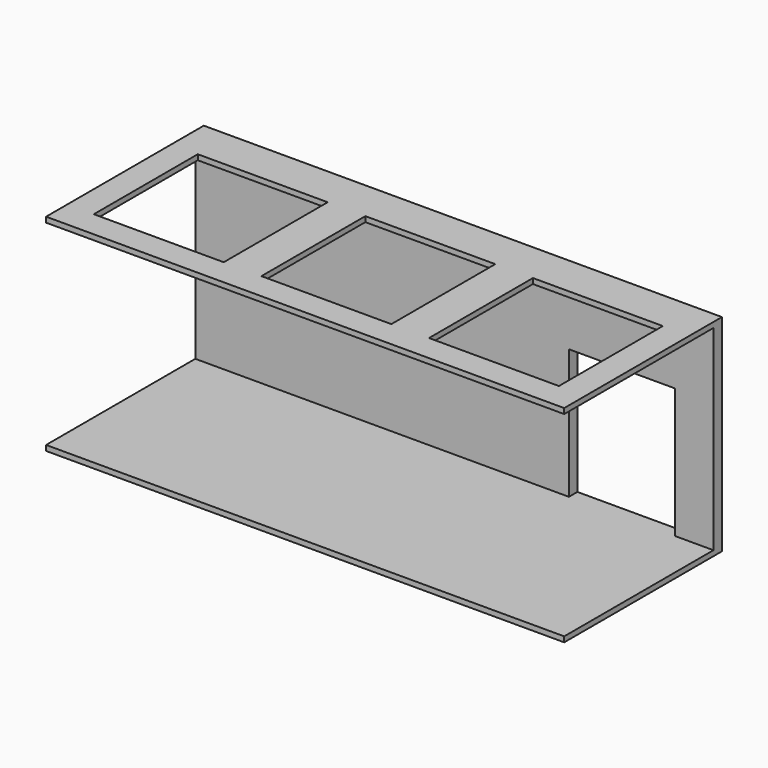
from build123d import *

# Parameters (mm, degrees)
F0_W     = 9770
F0_H     = 3517.15
F0_W_2   = 2450
F0_H_2   = 2450
F1_DEPTH = 50
F2_W     = 9770
F2_H     = 200
F3_DEPTH = 3789.3
F4_W     = 9770
F4_H     = 3717.15
F5_DEPTH = 100
F6_W     = 2000
F6_H     = 2450
F7_DEPTH = 200


with BuildPart() as f1:
    # F0 (on Top) → F1 (new body, symmetric)
    with BuildSketch(Plane.XY):
        with Locations((0, 33.575)):
            Rectangle(F0_W, F0_H)
        with Locations((-3160, 0)):
            Rectangle(F0_W_2, F0_H_2, mode=Mode.SUBTRACT)
        Rectangle(F0_W_2, F0_H_2, mode=Mode.SUBTRACT)
        with Locations((3160, 0)):
            Rectangle(F0_W_2, F0_H_2, mode=Mode.SUBTRACT)
    extrude(amount=F1_DEPTH, both=True)

    # F2 (on face) → F3 (join)
    with BuildSketch(Plane.XY.offset(50)):
        with Locations((0, 1892.15)):
            Rectangle(F2_W, F2_H)
    extrude(amount=-F3_DEPTH)

    # F4 (on face) → F5 (join)
    with BuildSketch(Plane(origin=(0, 0, -3739.3), x_dir=(1, 0, 0), z_dir=(0, 0, -1))):
        with Locations((0, -133.575)):
            Rectangle(F4_W, F4_H)
    extrude(amount=F5_DEPTH)

    # F6 (on face) → F7 (cut, through all)
    with BuildSketch(Plane.XZ.offset(-1792.15)):
        with Locations((3160, -2514.3)):
            Rectangle(F6_W, F6_H)
    extrude(amount=-F7_DEPTH, mode=Mode.SUBTRACT)


solid = f1.part
